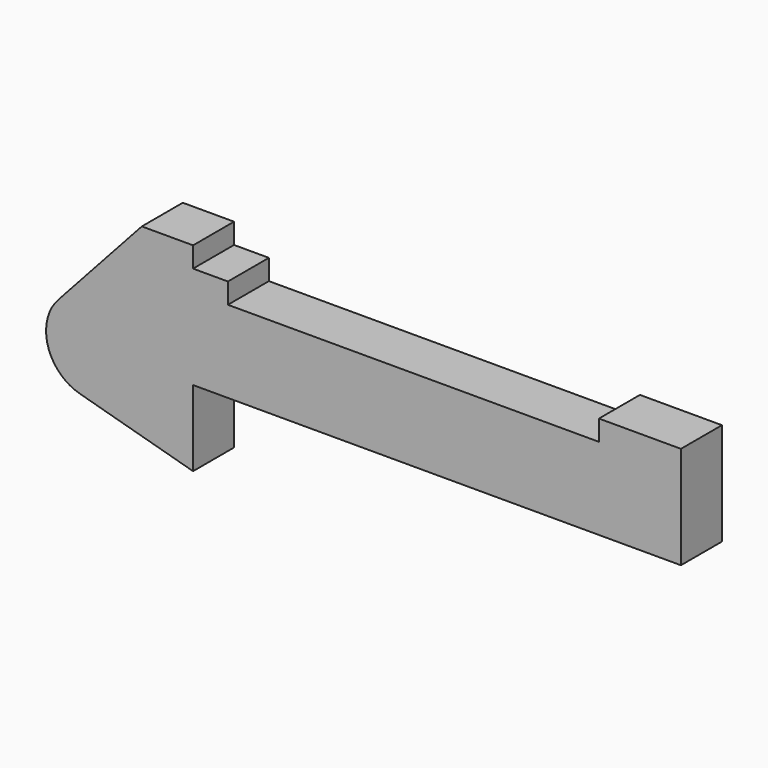
from build123d import *

# Parameters (mm, degrees)
F0_R     = 3.175
F0_W     = 5.842
F0_H     = 12.7
F1_DEPTH = 6.35
F2_DEPTH = 3.048


with BuildPart() as f1:
    # F0 (on Front) → F1 (new body)
    with BuildSketch(Plane.XZ):
        with BuildLine():
            Line((5.842, 0), (0, 0))
            Line((0, 0), (-0.9398, 0))
            ThreePointArc((-0.9398, 0), (-3.195791, -4.549339), (-8.182663, -5.506983))
            Line((-8.182663, -5.506983), (5.842, -9.398))
            Line((5.842, -9.398), (5.842, 0))
        make_face()
        with BuildLine():
            Line((-0.9398, 0), (0, 0))
            Line((0, 0), (0, 12.7))
            Line((0, 12.7), (5.842, 12.7))
            Line((5.842, 12.7), (5.842, 15.24))
            Line((5.842, 15.24), (-0.508, 15.24))
            Line((-0.508, 15.24), (-10.88063, 3.847543))
            ThreePointArc((-10.88063, 3.847543), (-4.591961, 5.329721), (-0.9398, 0))
        make_face()
        with BuildLine():
            ThreePointArc((-8.182663, -5.506983), (-3.195791, -4.549339), (-0.9398, 0))
            ThreePointArc((-0.9398, 0), (-4.591961, 5.329721), (-10.88063, 3.847543))
            ThreePointArc((-10.88063, 3.847543), (-12.145978, -1.583727), (-8.182663, -5.506983))
        make_face()
        with Locations((-6.6548, 0)):
            Circle(F0_R, mode=Mode.SUBTRACT)
        Polygon((5.842, 12.7), (5.842, 0), (66.294, 0), (66.294, 12.7), (56.134, 12.7), (56.134, 10.16), (10.16, 10.16), (10.16, 12.7), align=None)
        with Locations((2.921, 6.35)):
            Rectangle(F0_W, F0_H)
        with Locations((-6.6548, 0)):
            Circle(F0_R)
    extrude(amount=F1_DEPTH)

    # F0 (on Front) → F2 (join)
    with BuildSketch(Plane.XZ):
        with Locations((-6.6548, 0)):
            Circle(F0_R)
        with BuildLine():
            ThreePointArc((-8.182663, -5.506983), (-3.195791, -4.549339), (-0.9398, 0))
            ThreePointArc((-0.9398, 0), (-4.591961, 5.329721), (-10.88063, 3.847543))
            ThreePointArc((-10.88063, 3.847543), (-12.145978, -1.583727), (-8.182663, -5.506983))
        make_face()
        with Locations((-6.6548, 0)):
            Circle(F0_R, mode=Mode.SUBTRACT)
    extrude(amount=F2_DEPTH)


solid = f1.part
